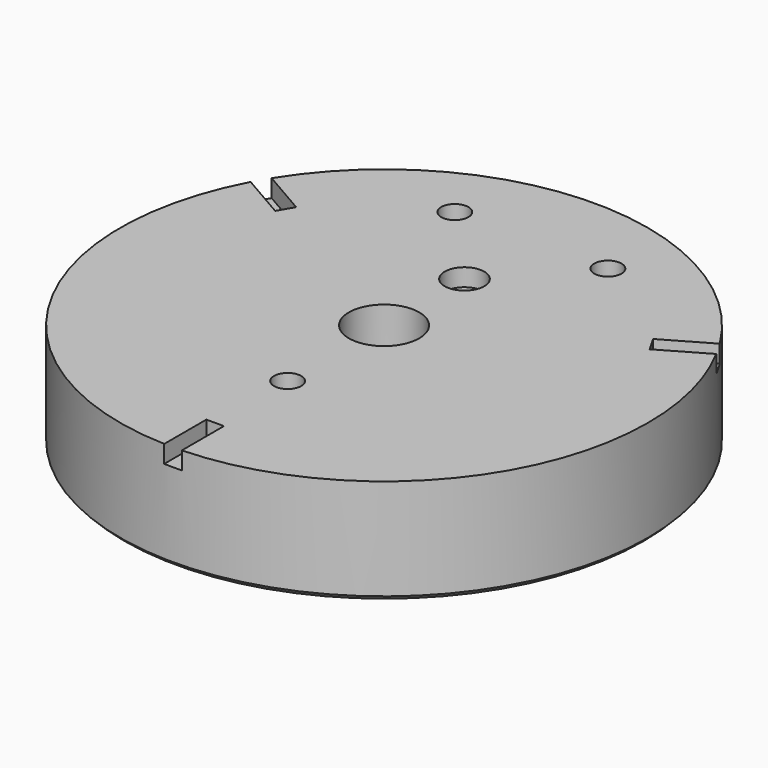
from build123d import *

# Parameters (mm, degrees)
F0_R     = 30
F0_R_2   = 4
F1_DEPTH = 12
F2_R     = 2.25
F3_DEPTH = 2
F4_R     = 1.55
F5_DEPTH = 25
F6_R     = 3
F7_DEPTH = 6
F9_DEPTH = 2
F10_SIZE = 0.5


with BuildPart() as f1:
    # F0 (on Top) → F1 (new body)
    with BuildSketch(Plane.XY):
        Circle(F0_R)
        Circle(F0_R_2, mode=Mode.SUBTRACT)
    extrude(amount=F1_DEPTH)

    # F2 (on face) → F3 (cut)
    with BuildSketch(Plane.XY.offset(12)):
        with Locations((0, 11.425)):
            Circle(F2_R)
    extrude(amount=-F3_DEPTH, mode=Mode.SUBTRACT)

    # F4 (on face) → F5 (cut)
    with BuildSketch(Plane.XY.offset(12)):
        with Locations((8.7, 20.925)):
            Circle(F4_R)
        with Locations((-8.7, 20.925)):
            Circle(F4_R)
        with Locations((0, -13.7)):
            Circle(F4_R)
    extrude(amount=-F5_DEPTH, mode=Mode.SUBTRACT)

    # F6 (on face) → F7 (cut)
    with BuildSketch(Plane(origin=(0, 0, 0), x_dir=(1, 0, 0), z_dir=(0, 0, -1))):
        with Locations((0, 13.7)):
            Circle(F6_R)
        with Locations((-8.7, -20.925)):
            Circle(F6_R)
        with Locations((8.7, -20.925)):
            Circle(F6_R)
    extrude(amount=-F7_DEPTH, mode=Mode.SUBTRACT)

    # F8 (on face) → F9 (cut)
    with BuildSketch(Plane.XY.offset(12)):
        with BuildLine():
            Line((21.28461, 11.133975), (26.466324, 14.125639))
            ThreePointArc((26.466324, 14.125639), (25.980762, 15), (25.466324, 15.85769))
            Line((25.466324, 15.85769), (20.28461, 12.866025))
            Line((20.28461, 12.866025), (21.28461, 11.133975))
        make_face()
        with BuildLine():
            Line((1, -29.983329), (1, -24))
            Line((1, -24), (-1, -24))
            Line((-1, -24), (-1, -29.983329))
            ThreePointArc((-1, -29.983329), (0, -30), (1, -29.983329))
        make_face()
        with BuildLine():
            Line((-20.28461, 12.866025), (-25.466324, 15.85769))
            ThreePointArc((-25.466324, 15.85769), (-25.980762, 15), (-26.466324, 14.125639))
            Line((-26.466324, 14.125639), (-21.28461, 11.133975))
            Line((-21.28461, 11.133975), (-20.28461, 12.866025))
        make_face()
    extrude(amount=-F9_DEPTH, mode=Mode.SUBTRACT)

    # F10
    f10_edges = [f1.edges().sort_by_distance(p)[0] for p in [
        (-30, 0, 0),
        (-3, -13.7, 0),
        (-4, 0, 0),
        (-11.7, 20.925, 0),
        (5.7, 20.925, 0),
    ]]
    chamfer(f10_edges, length=F10_SIZE)


solid = f1.part
